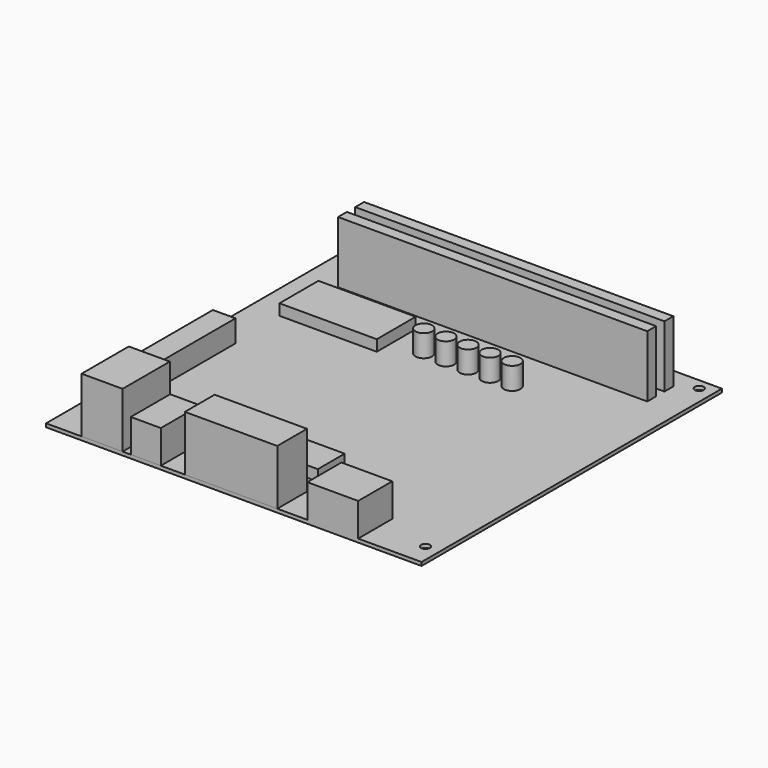
from build123d import *

# Parameters (mm, degrees)
F0_W     = 170
F0_H     = 170
F0_R     = 2
F1_DEPTH = 1.6
F2_W     = 140
F2_H     = 5
F3_DEPTH = 28
F2_W_2   = 18.561
F2_H_2   = 26.719725
F2_W_3   = 41.82321
F2_H_3   = 16.820741
F4_DEPTH = 25
F2_W_4   = 13.611103
F2_H_4   = 22.265183
F2_W_5   = 23.015141
F2_H_5   = 19.295486
F5_DEPTH = 15
F2_R     = 3.769423
F6_DEPTH = 10
F2_W_6   = 33.560348
F2_H_6   = 15.207031
F2_W_7   = 44.047956
F2_H_7   = 22.023975
F7_DEPTH = 5
F2_W_8   = 10.225419
F2_H_8   = 46.145479
F8_DEPTH = 10


with BuildPart() as f1:
    # F0 (on Top) → F1 (new body)
    with BuildSketch(Plane.XY):
        with Locations((44.239621, 37.176466)):
            Rectangle(F0_W, F0_H)
        with Locations((-34.590379, -14.803534)):
            Circle(F0_R, mode=Mode.SUBTRACT)
        with Locations((122.889621, -37.663534)):
            Circle(F0_R, mode=Mode.SUBTRACT)
        with Locations((-34.590379, 117.276466)):
            Circle(F0_R, mode=Mode.SUBTRACT)
        with Locations((122.889621, 117.276466)):
            Circle(F0_R, mode=Mode.SUBTRACT)
    extrude(amount=F1_DEPTH)

    # F2 (on face) → F3 (join)
    with BuildSketch(Plane.XY.offset(1.6)):
        with Locations((44.780245, 100.497786)):
            Rectangle(F2_W, F2_H)
        with Locations((44.780245, 110.224786)):
            Rectangle(F2_W, F2_H)
    extrude(amount=F3_DEPTH)

    # F2 (on face) → F4 (join)
    with BuildSketch(Plane.XY.offset(1.6)):
        with Locations((-15.401558, -34.463671)):
            Rectangle(F2_W_2, F2_H_2)
        with Locations((43.002247, -39.413163)):
            Rectangle(F2_W_3, F2_H_3)
    extrude(amount=F4_DEPTH)

    # F2 (on face) → F5 (join)
    with BuildSketch(Plane.XY.offset(1.6)):
        with Locations((4.396209, -36.690942)):
            Rectangle(F2_W_4, F2_H_4)
        with Locations((89.032523, -38.175791)):
            Rectangle(F2_W_5, F2_H_5)
    extrude(amount=F5_DEPTH)

    # F2 (on face) → F6 (join)
    with BuildSketch(Plane.XY.offset(1.6)):
        with Locations((30.100717, 77.391095)):
            Circle(F2_R)
        with Locations((40.100717, 77.391095)):
            Circle(F2_R)
        with Locations((50.100717, 77.391095)):
            Circle(F2_R)
        with Locations((60.100717, 77.391095)):
            Circle(F2_R)
        with Locations((70.100717, 77.391095)):
            Circle(F2_R)
    extrude(amount=F6_DEPTH)

    # F2 (on face) → F7 (join)
    with BuildSketch(Plane.XY.offset(1.6)):
        with Locations((45.419478, -15.130484)):
            Rectangle(F2_W_6, F2_H_6)
        with Locations((-5.707614, 78.995801)):
            Rectangle(F2_W_7, F2_H_7)
    extrude(amount=F7_DEPTH)

    # F2 (on face) → F8 (join)
    with BuildSketch(Plane.XY.offset(1.6)):
        with Locations((-31.79554, 18.692056)):
            Rectangle(F2_W_8, F2_H_8)
    extrude(amount=F8_DEPTH)


solid = f1.part
